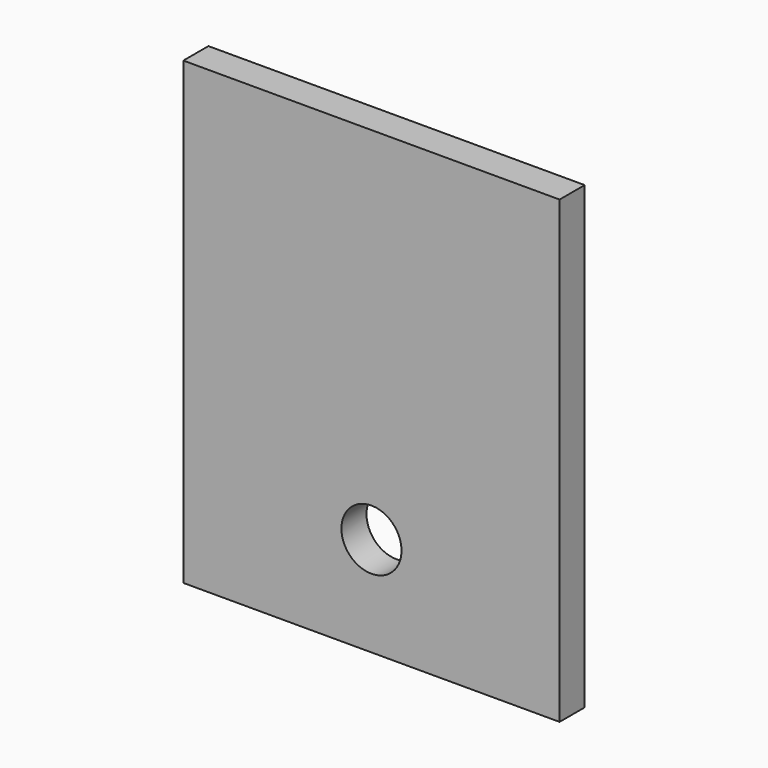
from build123d import *

# Parameters (mm, degrees)
F0_W     = 228.6
F0_H     = 279.4
F1_DEPTH = 9.525
F3_D     = 36.5125


with BuildPart() as f1:
    # F0 (on Front) → F1 (new body, symmetric)
    with BuildSketch(Plane.XZ):
        Rectangle(F0_W, F0_H)
    extrude(amount=F1_DEPTH, both=True)

    # F3 (through all)
    with Locations(Plane.XZ.offset(9.525)):
        with Locations((0, -79.375)):
            Hole(F3_D / 2)


solid = f1.part
